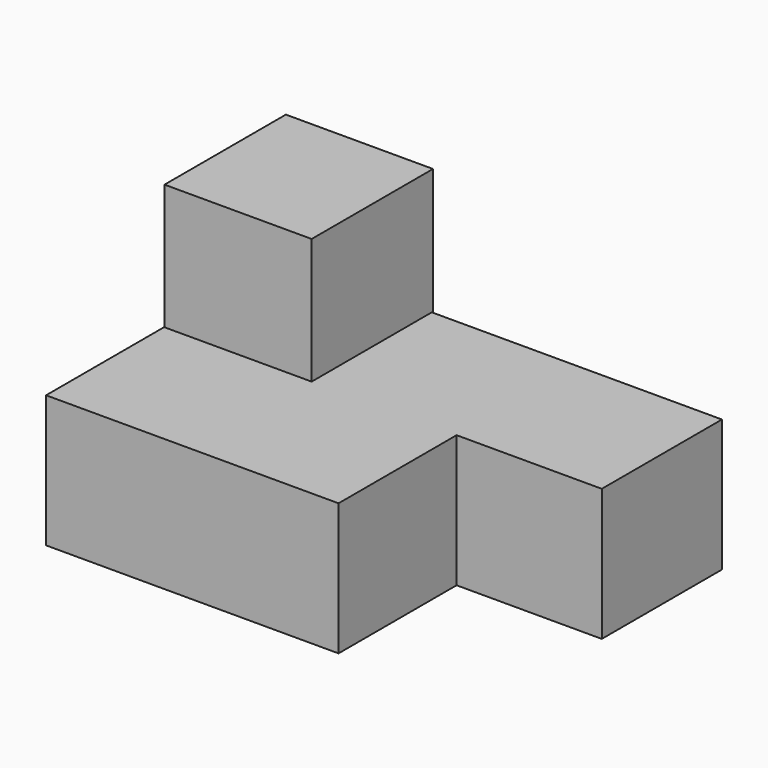
from build123d import *

# Parameters (mm, degrees)
F0_W     = 45.4592518508
F0_H     = 59.5056191087
F0_W_2   = 45.7147136331
F0_H_2   = 116.1159910262
F1_DEPTH = 38.608
F2_W     = 45.6728860736
F2_H     = 59.5056191087
F3_DEPTH = 35.306
F5_W     = 33.7057895958
F5_H     = 34.315392375
F5_H_2   = 34.9249877036
F5_W_2   = 33.7739177048
F6_DEPTH = 30.734
F8_DEPTH = 29.21


with BuildPart() as f1:
    # F0 (on Top) → F1 (new body)
    with BuildSketch(Plane.XY):
        Polygon((-27.5232736021, 56.6103719175), (-77.1979466081, 56.6103719175), (-77.1979466081, -59.5056191087), (-27.5232736021, -59.5056191087), (-27.5232736021, 0), align=None)
        with Locations((-4.7936476767, -29.7528095543)):
            Rectangle(F0_W, F0_H)
        with Locations((-100.0553034246, -1.4476235956)):
            Rectangle(F0_W_2, F0_H_2)
    extrude(amount=F1_DEPTH)

    # F2 (on face) → F3 (join)
    with BuildSketch(Plane.XY.offset(38.608)):
        with Locations((-100.0762172043, -29.7528095543)):
            Rectangle(F2_W, F2_H)
    extrude(amount=F3_DEPTH)


with BuildPart() as f6:
    # F5 (on Top) → F6 (new body)
    with BuildSketch(Plane.XY):
        Polygon((-34.2192724347, 0), (0, 0), (0, 34.9249877036), (0, 35.2751240134), (-34.2192724347, 35.2751240134), align=None)
        Polygon((0, -34.315392375), (0, 0), (-34.2192724347, 0), (-34.315392375, 0), (-34.315392375, -34.315392375), align=None)
        with Locations((16.8528947979, -17.1576961875)):
            Rectangle(F5_W, F5_H)
        with Locations((16.8528947979, 17.4624938518)):
            Rectangle(F5_W, F5_H_2)
        with Locations((50.5927484483, 17.4624938518)):
            Rectangle(F5_W_2, F5_H_2)
    extrude(amount=F6_DEPTH)

    # F7 (on face) → F8 (join)
    with BuildSketch(Plane.XY.offset(30.734)):
        Polygon((0, 35.2751240134), (-34.2192724347, 35.2751240134), (-34.2192724347, 0), (0, 0), (0, 34.9249877036), align=None)
    extrude(amount=F8_DEPTH)


solid = f6.part
